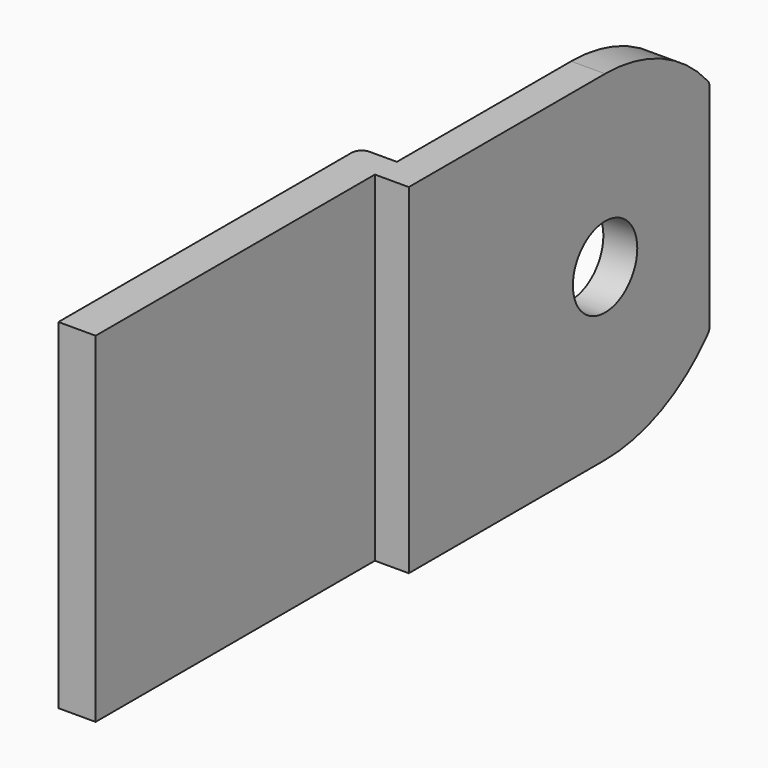
from build123d import *

# Parameters (mm, degrees)
F1_DEPTH = 34.08
F2_R     = 4.035
F3_DEPTH = 7.131
F4_R     = 1
F2_W     = 9.985
F2_H     = 4.77
F5_DEPTH = 27.1
F6_START = -3.4
F6_DEPTH = 23.7


with BuildPart() as f1:
    # F0 (on Top) → F1 (new body)
    with BuildSketch(Plane.XY):
        Polygon((27.1, 37.69), (23.7, 37.69), (23.7, 2.76), (19.97, 2.76), (19.97, -34.99), (23.7, -34.99), (23.7, 0), (27.1, 0), align=None)
    extrude(amount=F1_DEPTH)

    # F2 (on face) → F3 (cut, through all)
    with BuildSketch(Plane.YZ.offset(27.1)):
        with Locations((24.595, 17.04)):
            Circle(F2_R)
        with BuildLine():
            Line((37.69, 34.08), (24.595, 34.08))
            ThreePointArc((24.595, 34.08), (31.8257980304, 32.4697491828), (37.69, 27.9433286202))
            Line((37.69, 27.9433286202), (37.69, 34.08))
        make_face()
        with BuildLine():
            Line((37.69, 0), (37.69, 6.1366713798))
            ThreePointArc((37.69, 6.1366713798), (31.8257980304, 1.6102508172), (24.595, 0))
            Line((24.595, 0), (37.69, 0))
        make_face()
    extrude(amount=-F3_DEPTH, mode=Mode.SUBTRACT)

    # F4
    f4_edges = [f1.edges().sort_by_distance(p)[0] for p in [
        (25.4, 37.69, 6.136671),
        (25.4, 37.69, 27.943329),
        (19.97, 2.76, 17.04),
    ]]
    fillet(f4_edges, radius=F4_R)

    # F2 (on face) → F5 (join, through all)
    with BuildSketch(Plane.YZ.offset(27.1)):
        with Locations((4.9925, 2.385)):
            Rectangle(F2_W, F2_H)
    extrude(amount=-F5_DEPTH)

    # F2 (on face) → F6 (join)
    with BuildSketch(Plane.YZ.offset(27.1).offset(F6_START)):
        with Locations((-4.9925, 2.385)):
            Rectangle(F2_W, F2_H)
    extrude(amount=-F6_DEPTH)


solid = f1.part
